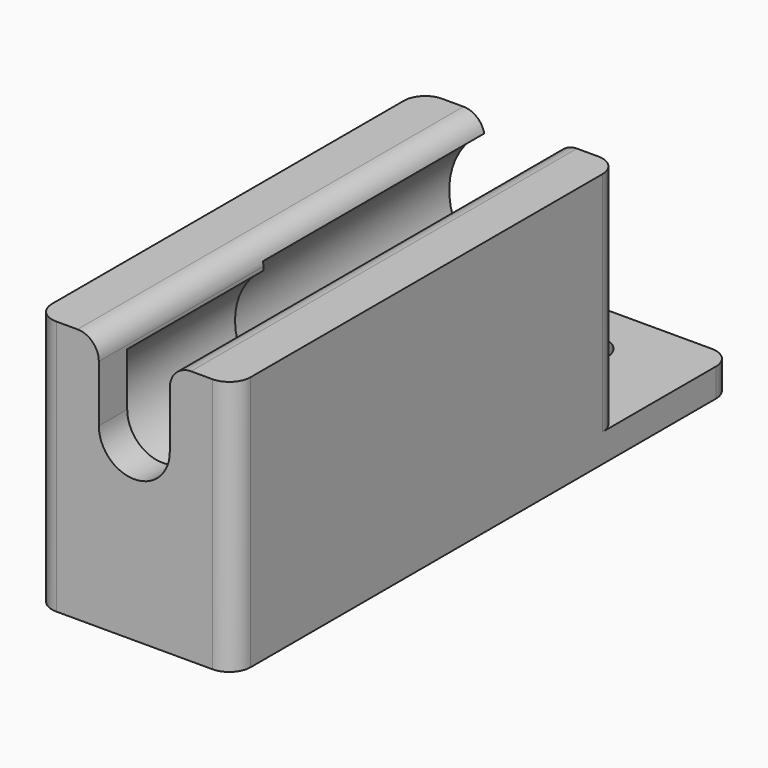
from build123d import *

# Parameters (mm, degrees)
F0_W      = 14
F0_H      = 44
F1_DEPTH  = 18
F2_W      = 14
F2_H      = 10
F3_DEPTH  = 16
F4_R      = 1.625
F5_DEPTH  = 2
F6_R      = 2.5
F7_DEPTH  = 34
F6_R_2    = 4.5
F8_DEPTH  = 31.5
F6_R_3    = 5
F9_DEPTH  = 19.5
F11_DEPTH = 34
F12_R     = 1.5


with BuildPart() as f1:
    # F0 (on Top) → F1 (new body)
    with BuildSketch(Plane.XY):
        with Locations((7, 22)):
            Rectangle(F0_W, F0_H)
    extrude(amount=F1_DEPTH)

    # F2 (on face) → F3 (cut)
    with BuildSketch(Plane.XY.offset(18)):
        with Locations((7, 39)):
            Rectangle(F2_W, F2_H)
    extrude(amount=-F3_DEPTH, mode=Mode.SUBTRACT)

    # F4 (on face) → F5 (cut, through all)
    with BuildSketch(Plane.XY.offset(2)):
        with Locations((7, 39.625)):
            Circle(F4_R)
    extrude(amount=-F5_DEPTH, mode=Mode.SUBTRACT)

    # F6 (on face) → F7 (cut, through all)
    with BuildSketch(Plane(origin=(0, 34, 0), x_dir=(-1, 0, 0), z_dir=(0, 1, 0))):
        with Locations((-7, 12.5)):
            Circle(F6_R)
    extrude(amount=-F7_DEPTH, mode=Mode.SUBTRACT)

    # F6 (on face) → F8 (cut)
    with BuildSketch(Plane(origin=(0, 34, 0), x_dir=(-1, 0, 0), z_dir=(0, 1, 0))):
        with Locations((-7, 12.5)):
            Circle(F6_R_2)
        with Locations((-7, 12.5)):
            Circle(F6_R, mode=Mode.SUBTRACT)
    extrude(amount=-F8_DEPTH, mode=Mode.SUBTRACT)

    # F6 (on face) → F9 (cut)
    with BuildSketch(Plane(origin=(0, 34, 0), x_dir=(-1, 0, 0), z_dir=(0, 1, 0))):
        with Locations((-7, 12.5)):
            Circle(F6_R_3)
        with Locations((-7, 12.5)):
            Circle(F6_R_2, mode=Mode.SUBTRACT)
    extrude(amount=-F9_DEPTH, mode=Mode.SUBTRACT)

    # F10 (on face) → F11 (cut, through all)
    with BuildSketch(Plane(origin=(0, 34, 0), x_dir=(-1, 0, 0), z_dir=(0, 1, 0))):
        with BuildLine():
            ThreePointArc((-4.5, 16.8301270189), (-7, 17.5), (-9.5, 16.8301270189))
            Line((-9.5, 16.8301270189), (-9.5, 12.5))
            ThreePointArc((-9.5, 12.5), (-7, 15), (-4.5, 12.5))
            Line((-4.5, 12.5), (-4.5, 16.8301270189))
        make_face()
        with BuildLine():
            Line((-4.5, 18), (-9.5, 18))
            Line((-9.5, 18), (-9.5, 16.8301270189))
            ThreePointArc((-9.5, 16.8301270189), (-7, 17.5), (-4.5, 16.8301270189))
            Line((-4.5, 16.8301270189), (-4.5, 18))
        make_face()
    extrude(amount=-F11_DEPTH, mode=Mode.SUBTRACT)

    # F12
    f12_edges = [f1.edges().sort_by_distance(p)[0] for p in [
        (0, 44, 1),
        (14, 44, 1),
        (4.5, 17, 18),
        (9.5, 17, 18),
        (14, 0, 9),
        (0, 0, 9),
        (0, 34, 10),
        (14, 34, 10),
    ]]
    fillet(f12_edges, radius=F12_R)


solid = f1.part
